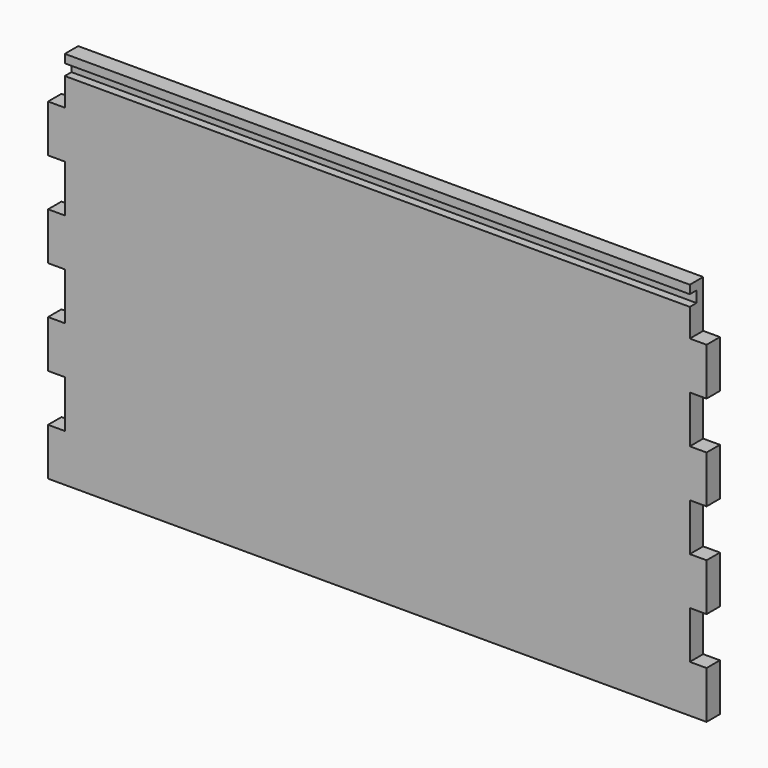
from build123d import *

# Parameters (mm, degrees)
F1_DEPTH = 19.05
F2_W     = 9.525
F2_H     = 12.7
F3_DEPTH = 730.251


with BuildPart() as f1:
    # F0 (on Front) → F1 (new body)
    with BuildSketch(Plane.XZ):
        Polygon((0, 53.975), (0, 0), (749.3, 0), (749.3, 53.975), (730.25, 53.975), (730.25, 107.95), (749.3, 107.95), (749.3, 161.925), (730.25, 161.925), (730.25, 215.9), (749.3, 215.9), (749.3, 269.875), (730.25, 269.875), (730.25, 323.85), (749.3, 323.85), (749.3, 377.825), (730.25, 377.825), (730.25, 431.8), (19.05, 431.8), (19.05, 377.825), (0, 377.825), (0, 323.85), (19.05, 323.85), (19.05, 269.875), (0, 269.875), (0, 215.9), (19.05, 215.9), (19.05, 161.925), (0, 161.925), (0, 107.95), (19.05, 107.95), (19.05, 53.975), align=None)
    extrude(amount=F1_DEPTH)

    # F2 (on face) → F3 (cut, through all)
    with BuildSketch(Plane.YZ.offset(730.25)):
        with Locations((-14.2875, 415.925)):
            Rectangle(F2_W, F2_H)
    extrude(amount=-F3_DEPTH, mode=Mode.SUBTRACT)


solid = f1.part
